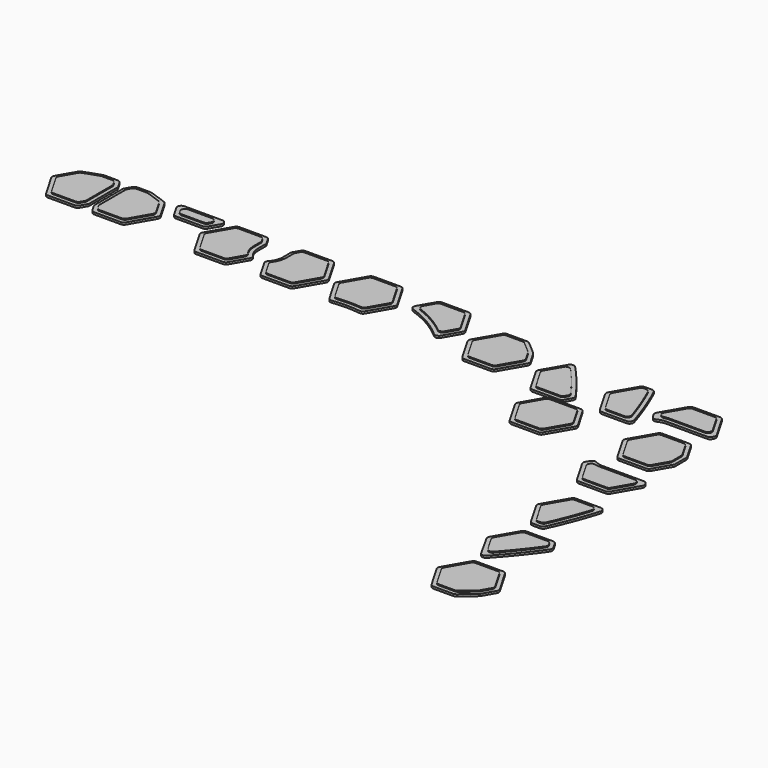
from build123d import *

# Parameters (mm, degrees)
PAD_DEPTH    = 2
PAD001_DEPTH = 1
FILLET_R     = 3.81
PAD002_DEPTH = 2
PAD003_DEPTH = 1
FILLET001_R  = 3.81
PAD004_DEPTH = 2
PAD005_DEPTH = 1
FILLET002_R  = 3.81
PAD006_DEPTH = 2
PAD007_DEPTH = 1
FILLET003_R  = 3.81
PAD008_DEPTH = 2
PAD009_DEPTH = 1
FILLET004_R  = 3.81
PAD010_DEPTH = 2
PAD011_DEPTH = 1
FILLET005_R  = 3.81
PAD012_DEPTH = 2
PAD013_DEPTH = 1
FILLET006_R  = 3.81
PAD014_DEPTH = 2
PAD015_DEPTH = 1
FILLET007_R  = 3.81
PAD020_DEPTH = 2
PAD021_DEPTH = 1
FILLET013_R  = 3.81
PAD022_DEPTH = 2
PAD023_DEPTH = 1
FILLET014_R  = 3.81
PAD024_DEPTH = 2
PAD025_DEPTH = 1
FILLET015_R  = 3.81
PAD030_DEPTH = 2
PAD031_DEPTH = 1
FILLET016_R  = 3.81
PAD026_DEPTH = 2
PAD032_DEPTH = 1
FILLET017_R  = 3.81
PAD028_DEPTH = 2
PAD033_DEPTH = 1
FILLET018_R  = 3.81
PAD016_DEPTH = 2
PAD034_DEPTH = 1
FILLET019_R  = 3.81
PAD018_DEPTH = 2
PAD035_DEPTH = 1
FILLET020_R  = 3.81
PAD036_DEPTH = 2
PAD037_DEPTH = 1
FILLET021_R  = 3.81


with BuildPart() as insert3:
    # Sketch → Pad (new body)
    with BuildSketch(Plane.XY):
        Polygon((-548.888668, 32.854832), (-554.094279, 34.631832), (-557.625151, 35.779603), (-573.377104, 35.779603), (-578.335465, 27.191469), (-578.335465, -8.415399), (-573.377104, -17.003533), (-542.902746, -17.003533), (-527.665567, 9.388035), (-539.160205, 29.297331), (-543.692335, 30.995178), align=None)
    extrude(amount=PAD_DEPTH)

    # Sketch001 → Pad001 (new body)
    with BuildSketch(Plane.XY.offset(2)):
        Polygon((-571.136412, 31.89861), (-574.454472, 26.15156), (-574.454472, -7.37549), (-571.136412, -13.12254), (-545.143439, -13.12254), (-532.146952, 9.388035), (-541.825245, 26.151329), (-545.027014, 27.350791), (-550.169482, 29.191168), (-555.321131, 30.949747), (-558.240105, 31.89861), align=None)
    extrude(amount=PAD001_DEPTH)

    # Fillet
    fillet_edges = [insert3.edges().sort_by_distance(p)[0] for p in [
        (-573.377104, -17.003533, 1),
        (-578.335465, -8.415399, 1),
        (-574.454472, -7.37549, 2.5),
        (-571.136412, -13.12254, 2.5),
        (-545.143439, -13.12254, 2.5),
        (-542.902746, -17.003533, 1),
        (-527.665567, 9.388035, 1),
        (-532.146952, 9.388035, 2.5),
        (-578.335465, 27.191469, 1),
        (-574.454472, 26.15156, 2.5),
        (-573.377104, 35.779603, 1),
        (-571.136412, 31.89861, 2.5),
        (-557.625151, 35.779603, 1),
        (-558.240105, 31.89861, 2.5),
        (-541.825245, 26.151329, 2.5),
        (-539.160205, 29.297331, 1),
    ]]
    fillet(fillet_edges, radius=FILLET_R)


with BuildPart() as insert5:
    # Sketch003 → Pad002 (new body)
    with BuildSketch(Plane.XY):
        with BuildLine():
            Line((-435.887289, 13.995863), (-435.887289, 24.503964))
            Line((-435.887289, 24.503964), (-440.84565, 33.092098))
            Line((-440.84565, 33.092098), (-471.320008, 33.092098))
            Line((-471.320008, 33.092098), (-486.557187, 6.70053))
            Line((-486.557187, 6.70053), (-471.320008, -19.691038))
            Line((-471.320008, -19.691038), (-440.84565, -19.691038))
            Line((-440.84565, -19.691038), (-429.116398, 0.624623))
            ThreePointArc((-435.887289, 13.995863), (-434.096854, 6.502566), (-429.116398, 0.624623))
        make_face()
    extrude(amount=PAD002_DEPTH)

    # Sketch002 → Pad003 (new body)
    with BuildSketch(Plane.XY.offset(2)):
        with BuildLine():
            ThreePointArc((-439.768282, 13.994329), (-438.287343, 6.354495), (-434.063031, -0.18121))
            Line((-443.086343, -15.810045), (-434.063031, -0.18121))
            Line((-469.079316, -15.810045), (-443.086343, -15.810045))
            Line((-482.075802, 6.70053), (-469.079316, -15.810045))
            Line((-469.079316, 29.211105), (-482.075802, 6.70053))
            Line((-443.086343, 29.211105), (-469.079316, 29.211105))
            Line((-439.768282, 23.464055), (-443.086343, 29.211105))
            Line((-439.768282, 13.99585), (-439.768282, 23.464055))
            Line((-439.768282, 13.994329), (-439.768282, 13.99585))
        make_face()
    extrude(amount=PAD003_DEPTH)

    # Fillet001
    fillet001_edges = [insert5.edges().sort_by_distance(p)[0] for p in [
        (-429.116398, 0.624623, 1),
        (-434.063031, -0.18121, 2.5),
        (-435.887289, 24.503964, 1),
        (-439.768282, 23.464055, 2.5),
        (-443.086343, 29.211105, 2.5),
        (-440.84565, 33.092098, 1),
        (-471.320008, 33.092098, 1),
        (-469.079316, 29.211105, 2.5),
        (-482.075802, 6.70053, 2.5),
        (-486.557187, 6.70053, 1),
        (-471.320008, -19.691038, 1),
        (-469.079316, -15.810045, 2.5),
        (-440.84565, -19.691038, 1),
        (-443.086343, -15.810045, 2.5),
    ]]
    fillet(fillet001_edges, radius=FILLET001_R)


with BuildPart() as insert7:
    # Sketch004 → Pad004 (new body)
    with BuildSketch(Plane.XY):
        with BuildLine():
            Line((-308.383261, -18.114864), (-293.963436, 6.861005))
            Line((-293.963436, 6.861005), (-309.200615, 33.252573))
            Line((-309.200615, 33.252573), (-339.674973, 33.252573))
            Line((-339.674973, 33.252573), (-354.912152, 6.861005))
            Line((-354.912152, 6.861005), (-340.492327, -18.114864))
            ThreePointArc((-324.437794, -16.917266), (-332.48737, -17.216997), (-340.492327, -18.114864))
            ThreePointArc((-308.383261, -18.114864), (-316.388229, -17.217136), (-324.437794, -16.917266))
        make_face()
    extrude(amount=PAD004_DEPTH)

    # Sketch005 → Pad005 (new body)
    with BuildSketch(Plane.XY.offset(2)):
        with BuildLine():
            Line((-310.438773, -13.91313), (-298.444821, 6.861005))
            Line((-298.444821, 6.861005), (-311.441308, 29.37158))
            Line((-311.441308, 29.37158), (-337.434281, 29.37158))
            Line((-337.434281, 29.37158), (-350.430767, 6.861005))
            Line((-350.430767, 6.861005), (-338.436819, -13.913123))
            ThreePointArc((-324.437789, -13.036273), (-331.45106, -13.255074), (-338.436819, -13.913123))
            ThreePointArc((-310.438773, -13.91313), (-317.424578, -13.255934), (-324.437789, -13.036273))
        make_face()
    extrude(amount=PAD005_DEPTH)

    # Fillet002
    fillet002_edges = [insert7.edges().sort_by_distance(p)[0] for p in [
        (-338.436819, -13.913123, 2.5),
        (-340.492327, -18.114864, 1),
        (-308.383261, -18.114864, 1),
        (-310.438773, -13.91313, 2.5),
        (-350.430767, 6.861005, 2.5),
        (-354.912152, 6.861005, 1),
        (-298.444821, 6.861005, 2.5),
        (-293.963436, 6.861005, 1),
        (-309.200615, 33.252573, 1),
        (-311.441308, 29.37158, 2.5),
        (-339.674973, 33.252573, 1),
        (-337.434281, 29.37158, 2.5),
    ]]
    fillet(fillet002_edges, radius=FILLET002_R)


with BuildPart() as insert8:
    # Sketch006 → Pad006 (new body)
    with BuildSketch(Plane.XY):
        Polygon((-272.45859, 32.454995), (-284.762088, 11.144712), (-284.250062, 11.003693), (-281.467074, 10.156379), (-278.689823, 9.228253), (-275.92167, 8.218843), (-273.166039, 7.127852), (-270.426406, 5.955171), (-267.706285, 4.700885), (-265.009217, 3.365273), (-262.338755, 1.948815), (-259.698451, 0.452194), (-257.091842, -1.1237), (-254.522435, -2.777776), (-251.993689, -4.508736), (-249.509007, -6.315079), (-247.071716, -8.195109), (-244.685055, -10.146933), (-242.352159, -12.168471), (-240.076047, -14.257463), (-239.053222, -15.251481), (-226.747054, 6.063428), (-241.984232, 32.454995), align=None)
    extrude(amount=PAD006_DEPTH)

    # Sketch007 → Pad007 (new body)
    with BuildSketch(Plane.XY.offset(2)):
        Polygon((-252.375531, 0.455785), (-249.756085, -1.337259), (-247.182284, -3.208392), (-244.657574, -5.155853), (-242.185309, -7.177684), (-239.977669, -9.090684), (-231.228438, 6.063428), (-244.224925, 28.574002), (-270.217898, 28.574002), (-278.97051, 13.414032), (-277.409747, 12.892443), (-274.542306, 11.846827), (-271.687837, 10.716704), (-268.849939, 9.501963), (-266.032253, 8.202689), (-263.238448, 6.819171), (-260.472203, 5.351908), (-257.737198, 3.801607), (-255.037097, 2.169189), align=None)
    extrude(amount=PAD007_DEPTH)

    # Fillet003
    fillet003_edges = [insert8.edges().sort_by_distance(p)[0] for p in [
        (-278.97051, 13.414032, 2.5),
        (-239.977669, -9.090684, 2.5),
        (-239.053222, -15.251481, 1),
        (-284.762088, 11.144712, 1),
        (-231.228438, 6.063428, 2.5),
        (-226.747054, 6.063428, 1),
        (-244.224925, 28.574002, 2.5),
        (-241.984232, 32.454995, 1),
        (-272.45859, 32.454995, 1),
        (-270.217898, 28.574002, 2.5),
    ]]
    fillet(fillet003_edges, radius=FILLET003_R)


with BuildPart() as insert9:
    # Sketch008 → Pad008 (new body)
    with BuildSketch(Plane.XY):
        Polygon((-215.963057, -3.631079), (-200.725878, -30.022647), (-170.25152, -30.022647), (-155.014341, -3.631079), (-162.889974, 10.009918), (-164.07652, 11.091065), (-168.417464, 14.92518), (-172.814813, 18.689675), (-177.266889, 22.383324), (-177.736058, 22.760489), (-200.725878, 22.760489), align=None)
    extrude(amount=PAD008_DEPTH)

    # Sketch009 → Pad009 (new body)
    with BuildSketch(Plane.XY.offset(2)):
        Polygon((-166.668232, 8.202114), (-170.964177, 11.996484), (-175.315943, 15.721956), (-179.121828, 18.879496), (-198.485185, 18.879496), (-211.481672, -3.631079), (-198.485185, -26.141654), (-172.492212, -26.141654), (-159.495726, -3.631079), (-165.949549, 7.54727), align=None)
    extrude(amount=PAD009_DEPTH)

    # Fillet004
    fillet004_edges = [insert9.edges().sort_by_distance(p)[0] for p in [
        (-200.725878, -30.022647, 1),
        (-198.485185, -26.141654, 2.5),
        (-172.492212, -26.141654, 2.5),
        (-170.25152, -30.022647, 1),
        (-155.014341, -3.631079, 1),
        (-159.495726, -3.631079, 2.5),
        (-211.481672, -3.631079, 2.5),
        (-215.963057, -3.631079, 1),
        (-165.949549, 7.54727, 2.5),
        (-162.889974, 10.009918, 1),
        (-177.736058, 22.760489, 1),
        (-179.121828, 18.879496, 2.5),
        (-200.725878, 22.760489, 1),
        (-198.485185, 18.879496, 2.5),
    ]]
    fillet(fillet004_edges, radius=FILLET004_R)


with BuildPart() as insert2:
    # Sketch011 → Pad010 (new body)
    with BuildSketch(Plane.XY):
        Polygon((-618.433201, -17.312886), (-587.958843, -17.312886), (-583.000482, -8.724753), (-583.000482, 26.882116), (-587.958843, 35.47025), (-603.710796, 35.47025), (-607.241668, 34.322479), (-612.447279, 32.545479), (-617.643612, 30.685825), (-622.175742, 28.987978), (-633.670379, 9.078682), align=None)
    extrude(amount=PAD010_DEPTH)

    # Sketch010 → Pad011 (new body)
    with BuildSketch(Plane.XY.offset(2)):
        Polygon((-619.510702, 25.841976), (-629.188995, 9.078682), (-616.192508, -13.431893), (-590.199535, -13.431893), (-586.881475, -7.684844), (-586.881475, 25.842207), (-590.199535, 31.589257), (-603.095842, 31.589257), (-606.014816, 30.640394), (-611.166465, 28.881814), (-616.308932, 27.041438), align=None)
    extrude(amount=PAD011_DEPTH)

    # Fillet005
    fillet005_edges = [insert2.edges().sort_by_distance(p)[0] for p in [
        (-583.000482, -8.724753, 1),
        (-587.958843, -17.312886, 1),
        (-586.881475, -7.684844, 2.5),
        (-590.199535, -13.431893, 2.5),
        (-616.192508, -13.431893, 2.5),
        (-618.433201, -17.312886, 1),
        (-633.670379, 9.078682, 1),
        (-629.188995, 9.078682, 2.5),
        (-622.175742, 28.987978, 1),
        (-619.510702, 25.841976, 2.5),
        (-603.095842, 31.589257, 2.5),
        (-603.710796, 35.47025, 1),
        (-590.199535, 31.589257, 2.5),
        (-587.958843, 35.47025, 1),
        (-583.000482, 26.882116, 1),
        (-586.881475, 25.842207, 2.5),
    ]]
    fillet(fillet005_edges, radius=FILLET005_R)


with BuildPart() as insert4:
    # Sketch012 → Pad012 (new body)
    with BuildSketch(Plane.XY):
        Polygon((-489.755288, 16.720231), (-479.89243, 33.803203), (-530.092504, 33.803203), (-520.229646, 16.720231), align=None)
    extrude(amount=PAD012_DEPTH)

    # Sketch013 → Pad013 (new body)
    with BuildSketch(Plane.XY.offset(2)):
        Polygon((-486.614507, 29.92221), (-523.370427, 29.92221), (-517.988953, 20.601224), (-491.99598, 20.601224), align=None)
    extrude(amount=PAD013_DEPTH)

    # Fillet006
    fillet006_edges = [insert4.edges().sort_by_distance(p)[0] for p in [
        (-489.755288, 16.720231, 1),
        (-520.229646, 16.720231, 1),
        (-517.988953, 20.601224, 2.5),
        (-491.99598, 20.601224, 2.5),
        (-479.89243, 33.803203, 1),
        (-486.614507, 29.92221, 2.5),
        (-530.092504, 33.803203, 1),
        (-523.370427, 29.92221, 2.5),
    ]]
    fillet(fillet006_edges, radius=FILLET006_R)


with BuildPart() as insert6:
    # Sketch014 → Pad014 (new body)
    with BuildSketch(Plane.XY):
        with BuildLine():
            Line((-376.563891, -19.072332), (-361.326713, 7.319236))
            Line((-361.326713, 7.319236), (-376.563891, 33.710804))
            Line((-376.563891, 33.710804), (-407.038249, 33.710804))
            Line((-407.038249, 33.710804), (-411.99661, 25.12267))
            Line((-411.99661, 25.12267), (-411.99661, 14.614569))
            ThreePointArc((-418.767502, 1.243329), (-413.787303, 7.121402), (-411.99661, 14.614569))
            Line((-418.767502, 1.243329), (-407.038249, -19.072332))
            Line((-407.038249, -19.072332), (-376.563891, -19.072332))
        make_face()
    extrude(amount=PAD014_DEPTH)

    # Sketch015 → Pad015 (new body)
    with BuildSketch(Plane.XY.offset(2)):
        with BuildLine():
            Line((-404.797557, 29.829811), (-408.115617, 24.082761))
            Line((-408.115617, 24.082761), (-408.115617, 14.614556))
            Line((-408.115617, 14.614556), (-408.115618, 14.613024))
            ThreePointArc((-413.820877, 0.43751), (-409.597029, 6.973389), (-408.115618, 14.613024))
            Line((-413.820877, 0.43751), (-404.797557, -15.191339))
            Line((-404.797557, -15.191339), (-378.804584, -15.191339))
            Line((-378.804584, -15.191339), (-365.808097, 7.319236))
            Line((-365.808097, 7.319236), (-378.804584, 29.829811))
            Line((-378.804584, 29.829811), (-404.797557, 29.829811))
        make_face()
    extrude(amount=PAD015_DEPTH)

    # Fillet007
    fillet007_edges = [insert6.edges().sort_by_distance(p)[0] for p in [
        (-407.038249, -19.072332, 1),
        (-404.797557, -15.191339, 2.5),
        (-376.563891, -19.072332, 1),
        (-378.804584, -15.191339, 2.5),
        (-361.326713, 7.319236, 1),
        (-365.808097, 7.319236, 2.5),
        (-413.820877, 0.43751, 2.5),
        (-418.767502, 1.243329, 1),
        (-411.99661, 25.12267, 1),
        (-408.115617, 24.082761, 2.5),
        (-407.038249, 33.710804, 1),
        (-404.797557, 29.829811, 2.5),
        (-376.563891, 33.710804, 1),
        (-378.804584, 29.829811, 2.5),
    ]]
    fillet(fillet007_edges, radius=FILLET007_R)


with BuildPart() as insert12:
    # Sketch020 → Pad020 (new body)
    with BuildSketch(Plane.XY):
        with BuildLine():
            ThreePointArc((-13.110238, -14.352457), (-18.890987, -15.395565), (-23.946511, -18.386685))
            Line((-29.094438, -9.470213), (-23.946511, -18.386685))
            Line((-13.85726, 16.921355), (-29.094438, -9.470213))
            Line((16.617098, 16.921355), (-13.85726, 16.921355))
            Line((31.854277, -9.470213), (16.617098, 16.921355))
            Line((29.035512, -14.352457), (31.854277, -9.470213))
            Line((-13.110238, -14.352457), (29.035512, -14.352457))
        make_face()
    extrude(amount=PAD020_DEPTH)

    # Sketch021 → Pad021 (new body)
    with BuildSketch(Plane.XY.offset(2)):
        with BuildLine():
            Line((-13.112772, -10.471465), (21.351852, -10.471465))
            ThreePointArc((21.351852, -10.471465), (24.651409, -8.566465), (24.651409, -4.756465))
            Line((24.651409, -4.756465), (14.376406, 13.040362))
            Line((14.376406, 13.040362), (-11.616567, 13.040362))
            Line((-11.616567, 13.040362), (-22.313467, -5.487211))
            ThreePointArc((-22.313467, -5.487211), (-22.054882, -9.687528), (-18.086325, -11.087559))
            ThreePointArc((-18.086325, -11.087559), (-15.618468, -10.626777), (-13.112772, -10.471465))
        make_face()
    extrude(amount=PAD021_DEPTH)

    # Fillet013
    fillet013_edges = [insert12.edges().sort_by_distance(p)[0] for p in [
        (-29.094438, -9.470213, 1),
        (-13.85726, 16.921355, 1),
        (-11.616567, 13.040362, 2.5),
        (16.617098, 16.921355, 1),
        (14.376406, 13.040362, 2.5),
        (31.854277, -9.470213, 1),
        (29.035512, -14.352457, 1),
        (-23.946511, -18.386685, 1),
    ]]
    fillet(fillet013_edges, radius=FILLET013_R)


with BuildPart() as insert13:
    # Sketch022 → Pad022 (new body)
    with BuildSketch(Plane.XY):
        Polygon((36.165968, -50.622495), (25.3472, -31.883839), (-5.127158, -31.883839), (-20.364337, -58.275407), (-5.127158, -84.666975), (25.3472, -84.666975), (36.165968, -65.928319), align=None)
    extrude(amount=PAD022_DEPTH)

    # Sketch023 → Pad023 (new body)
    with BuildSketch(Plane.XY.offset(2)):
        Polygon((23.106507, -35.764832), (-2.886466, -35.764832), (-15.882952, -58.275407), (-2.886466, -80.785982), (23.106507, -80.785982), (32.284975, -64.88841), (32.284975, -51.662404), align=None)
    extrude(amount=PAD023_DEPTH)

    # Fillet014
    fillet014_edges = [insert13.edges().sort_by_distance(p)[0] for p in [
        (25.3472, -84.666975, 1),
        (23.106507, -80.785982, 2.5),
        (36.165968, -65.928319, 1),
        (32.284975, -64.88841, 2.5),
        (-5.127158, -84.666975, 1),
        (-2.886466, -80.785982, 2.5),
        (-20.364337, -58.275407, 1),
        (-15.882952, -58.275407, 2.5),
        (-5.127158, -31.883839, 1),
        (-2.886466, -35.764832, 2.5),
        (25.3472, -31.883839, 1),
        (23.106507, -35.764832, 2.5),
        (36.165968, -50.622495, 1),
        (32.284975, -51.662404, 2.5),
    ]]
    fillet(fillet014_edges, radius=FILLET014_R)


with BuildPart() as insert14:
    # Sketch024 → Pad024 (new body)
    with BuildSketch(Plane.XY):
        with BuildLine():
            Line((-15.81995, -98.206424), (-20.967877, -107.122896))
            Line((-20.967877, -107.122896), (-5.730698, -133.514464))
            Line((-5.730698, -133.514464), (24.743659, -133.514464))
            Line((24.743659, -133.514464), (39.980838, -107.122896))
            Line((39.980838, -107.122896), (37.162074, -102.240652))
            Line((37.162074, -102.240652), (-4.983676, -102.240652))
            ThreePointArc((-15.81995, -98.206424), (-10.764423, -101.197538), (-4.983676, -102.240652))
        make_face()
    extrude(amount=PAD024_DEPTH)

    # Sketch025 → Pad025 (new body)
    with BuildSketch(Plane.XY.offset(2)):
        with BuildLine():
            Line((-14.187114, -111.105539), (-3.490006, -129.633471))
            Line((-3.490006, -129.633471), (22.502967, -129.633471))
            Line((22.502967, -129.633471), (32.777969, -111.836643))
            ThreePointArc((32.777969, -111.836643), (32.777969, -108.026643), (29.478412, -106.121643))
            Line((29.478412, -106.121643), (-5.007739, -106.121645))
            ThreePointArc((-9.959924, -105.505191), (-7.502687, -105.964894), (-5.007739, -106.121645))
            ThreePointArc((-9.959924, -105.505191), (-13.928524, -106.905191), (-14.187114, -111.105539))
        make_face()
    extrude(amount=PAD025_DEPTH)

    # Fillet015
    fillet015_edges = [insert14.edges().sort_by_distance(p)[0] for p in [
        (-5.730698, -133.514464, 1),
        (-3.490006, -129.633471, 2.5),
        (24.743659, -133.514464, 1),
        (22.502967, -129.633471, 2.5),
        (39.980838, -107.122896, 1),
        (37.162074, -102.240652, 1),
        (-20.967877, -107.122896, 1),
        (-15.81995, -98.206424, 1),
    ]]
    fillet(fillet015_edges, radius=FILLET015_R)


with BuildPart() as insert17:
    # Sketch030 → Pad030 (new body)
    with BuildSketch(Plane.XY):
        Polygon((39.164585, -338.851145), (39.633754, -338.473981), (44.08583, -334.780331), (48.483179, -331.015836), (52.824123, -327.181722), (54.010669, -326.100574), (61.886302, -312.459577), (46.649123, -286.06801), (16.174765, -286.06801), (0.937587, -312.459577), (16.174765, -338.851145), align=None)
    extrude(amount=PAD030_DEPTH)

    # Sketch031 → Pad031 (new body)
    with BuildSketch(Plane.XY.offset(2)):
        Polygon((57.404917, -312.459577), (44.408431, -289.949003), (18.415458, -289.949003), (5.418971, -312.459577), (18.415458, -334.970152), (37.778815, -334.970152), (41.5847, -331.812612), (45.936466, -328.08714), (50.232412, -324.29277), (50.951094, -323.637926), align=None)
    extrude(amount=PAD031_DEPTH)

    # Fillet016
    fillet016_edges = [insert17.edges().sort_by_distance(p)[0] for p in [
        (16.174765, -338.851145, 1),
        (18.415458, -334.970152, 2.5),
        (39.164585, -338.851145, 1),
        (37.778815, -334.970152, 2.5),
        (54.010669, -326.100574, 1),
        (50.951094, -323.637926, 2.5),
        (61.886302, -312.459577, 1),
        (57.404917, -312.459577, 2.5),
        (46.649123, -286.06801, 1),
        (44.408431, -289.949003, 2.5),
        (16.174765, -286.06801, 1),
        (18.415458, -289.949003, 2.5),
        (0.937587, -312.459577, 1),
        (5.418971, -312.459577, 2.5),
    ]]
    fillet(fillet016_edges, radius=FILLET016_R)


with BuildPart() as insert15:
    # Sketch026 → Pad026 (new body)
    with BuildSketch(Plane.XY):
        with BuildLine():
            Line((32.355529, -185.505228), (34.298022, -180.320053))
            Line((34.298022, -180.320053), (36.157676, -175.12372))
            Line((36.157676, -175.12372), (37.934676, -169.918109))
            Line((37.934676, -169.918109), (39.629261, -164.705082))
            Line((39.629261, -164.705082), (40.434826, -162.097921))
            ThreePointArc((40.434826, -162.097921), (39.860688, -158.711443), (36.79463, -157.163166))
            Line((36.79463, -157.163166), (10.398021, -157.163167))
            Line((10.398021, -157.163167), (-4.839157, -183.554735))
            Line((-4.839157, -183.554735), (10.398021, -209.946303))
            Line((10.398021, -209.946303), (21.975886, -209.946303))
            Line((21.975886, -209.946303), (23.755406, -206.096179))
            Line((23.755406, -206.096179), (26.029994, -200.974753))
            Line((26.029994, -200.974753), (28.221561, -195.834496))
            Line((28.221561, -195.834496), (30.330067, -190.677346))
            Line((30.330067, -190.677346), (32.355529, -185.505228))
        make_face()
    extrude(amount=PAD026_DEPTH)

    # Sketch027 → Pad032 (new body)
    with BuildSketch(Plane.XY.offset(2)):
        Polygon((32.494012, -173.842906), (34.252591, -168.691257), (35.929609, -163.532268), (36.698393, -161.04416), (12.638714, -161.04416), (-0.357773, -183.554735), (12.638714, -206.06531), (19.494188, -206.06531), (20.220304, -204.494303), (22.471313, -199.425966), (24.640162, -194.338994), (26.726811, -189.235303), (28.731278, -184.116799), (30.653635, -178.985374), align=None)
    extrude(amount=PAD032_DEPTH)

    # Fillet017
    fillet017_edges = [insert15.edges().sort_by_distance(p)[0] for p in [
        (10.398021, -157.163167, 1),
        (12.638714, -161.04416, 2.5),
        (-0.357773, -183.554735, 2.5),
        (-4.839157, -183.554735, 1),
        (10.398021, -209.946303, 1),
        (12.638714, -206.06531, 2.5),
        (19.494188, -206.06531, 2.5),
        (21.975886, -209.946303, 1),
        (36.698393, -161.04416, 2.5),
    ]]
    fillet(fillet017_edges, radius=FILLET017_R)


with BuildPart() as insert16:
    # Sketch028 → Pad028 (new body)
    with BuildSketch(Plane.XY):
        Polygon((41.337621, -246.428722), (44.811926, -241.822876), (48.211035, -237.169346), (50.965498, -233.273949), (45.175721, -223.245762), (14.701364, -223.245762), (-0.535815, -249.63733), (14.795002, -277.260225), (18.972773, -272.963431), (22.87523, -268.680534), (26.709344, -264.33959), (30.473839, -259.942241), (34.167489, -255.490165), (37.789121, -250.985077), align=None)
    extrude(amount=PAD028_DEPTH)

    # Sketch029 → Pad033 (new body)
    with BuildSketch(Plane.XY.offset(2)):
        Polygon((31.161482, -253.035186), (34.745572, -248.576797), (38.257288, -244.067673), (41.695579, -239.509572), (45.059453, -234.90428), (46.361923, -233.06231), (42.935029, -227.126755), (16.942056, -227.126755), (3.945569, -249.63733), (15.97973, -270.481108), (16.124275, -270.327323), (19.986278, -266.088823), (23.780648, -261.792877), (27.50612, -257.441111), align=None)
    extrude(amount=PAD033_DEPTH)

    # Fillet018
    fillet018_edges = [insert16.edges().sort_by_distance(p)[0] for p in [
        (14.795002, -277.260225, 1),
        (15.97973, -270.481108, 2.5),
        (-0.535815, -249.63733, 1),
        (3.945569, -249.63733, 2.5),
        (50.965498, -233.273949, 1),
        (46.361923, -233.06231, 2.5),
        (42.935029, -227.126755, 2.5),
        (45.175721, -223.245762, 1),
        (14.701364, -223.245762, 1),
        (16.942056, -227.126755, 2.5),
    ]]
    fillet(fillet018_edges, radius=FILLET018_R)


with BuildPart() as insert10:
    # Sketch016 → Pad016 (new body)
    with BuildSketch(Plane.XY):
        with BuildLine():
            Line((-92.071046, -26.954905), (-94.825509, -23.059509))
            Line((-94.825509, -23.059509), (-98.224618, -18.405978))
            Line((-98.224618, -18.405978), (-101.698923, -13.800133))
            Line((-101.698923, -13.800133), (-105.247423, -9.243778))
            Line((-105.247423, -9.243778), (-108.869055, -4.738689))
            Line((-108.869055, -4.738689), (-112.562705, -0.286614))
            Line((-112.562705, -0.286614), (-116.3272, 4.110736))
            Line((-116.3272, 4.110736), (-120.161314, 8.451679))
            Line((-120.161314, 8.451679), (-124.063771, 12.734576))
            Line((-124.063771, 12.734576), (-124.294321, 12.979867))
            ThreePointArc((-124.294321, 12.979867), (-127.509281, 14.155149), (-130.370079, 12.275497))
            Line((-130.370079, 12.275497), (-143.572359, -10.591524))
            Line((-143.572359, -10.591524), (-128.33518, -36.983092))
            Line((-128.33518, -36.983092), (-97.860823, -36.983092))
            Line((-97.860823, -36.983092), (-92.071046, -26.954905))
        make_face()
    extrude(amount=PAD016_DEPTH)

    # Sketch017 → Pad034 (new body)
    with BuildSketch(Plane.XY.offset(2)):
        with BuildLine():
            Line((-123.050266, 5.859968), (-123.545057, 6.402995))
            ThreePointArc((-123.545057, 6.402995), (-126.770767, 7.624838), (-129.660866, 5.741904))
            Line((-129.660866, 5.741904), (-139.090975, -10.591524))
            Line((-139.090975, -10.591524), (-126.094488, -33.102099))
            Line((-126.094488, -33.102099), (-100.101515, -33.102099))
            Line((-100.101515, -33.102099), (-97.896207, -29.282394))
            ThreePointArc((-97.896207, -29.282394), (-97.391242, -27.173146), (-98.119126, -25.130085))
            Line((-98.119126, -25.130085), (-101.340965, -20.719283))
            Line((-101.340965, -20.719283), (-104.779256, -16.161182))
            Line((-104.779256, -16.161182), (-108.290972, -11.652058))
            Line((-108.290972, -11.652058), (-111.875062, -7.193669))
            Line((-111.875062, -7.193669), (-115.530424, -2.787744))
            Line((-115.530424, -2.787744), (-119.255896, 1.564023))
            Line((-119.255896, 1.564023), (-123.050266, 5.859968))
        make_face()
    extrude(amount=PAD034_DEPTH)

    # Fillet019
    fillet019_edges = [insert10.edges().sort_by_distance(p)[0] for p in [
        (-128.33518, -36.983092, 1),
        (-126.094488, -33.102099, 2.5),
        (-100.101515, -33.102099, 2.5),
        (-97.860823, -36.983092, 1),
        (-92.071046, -26.954905, 1),
        (-143.572359, -10.591524, 1),
        (-139.090975, -10.591524, 2.5),
    ]]
    fillet(fillet019_edges, radius=FILLET019_R)


with BuildPart() as insert11:
    # Sketch018 → Pad018 (new body)
    with BuildSketch(Plane.XY):
        with BuildLine():
            Line((-63.904504, -32.729487), (-37.507896, -32.729487))
            ThreePointArc((-37.507896, -32.729487), (-34.441838, -31.18121), (-33.8677, -27.794732))
            Line((-33.8677, -27.794732), (-34.673265, -25.187572))
            Line((-34.673265, -25.187572), (-36.367849, -19.974544))
            Line((-36.367849, -19.974544), (-38.144849, -14.768933))
            Line((-38.144849, -14.768933), (-40.004504, -9.5726))
            Line((-40.004504, -9.5726), (-41.946997, -4.387426))
            Line((-41.946997, -4.387426), (-43.972459, 0.784693))
            Line((-43.972459, 0.784693), (-46.080965, 5.941843))
            Line((-46.080965, 5.941843), (-48.272532, 11.082099))
            Line((-48.272532, 11.082099), (-50.54712, 16.203525))
            Line((-50.54712, 16.203525), (-52.326639, 20.053649))
            Line((-52.326639, 20.053649), (-63.904504, 20.053649))
            Line((-63.904504, 20.053649), (-79.141683, -6.337919))
            Line((-79.141683, -6.337919), (-63.904504, -32.729487))
        make_face()
    extrude(amount=PAD018_DEPTH)

    # Sketch019 → Pad035 (new body)
    with BuildSketch(Plane.XY.offset(2)):
        with BuildLine():
            Line((-61.663812, -28.848494), (-42.808866, -28.848494))
            ThreePointArc((-42.808866, -28.848494), (-39.726363, -27.277751), (-39.185497, -23.860659))
            Line((-39.185497, -23.860659), (-40.049934, -21.201396))
            Line((-40.049934, -21.201396), (-41.808514, -16.049747))
            Line((-41.808514, -16.049747), (-43.648891, -10.90728))
            Line((-43.648891, -10.90728), (-45.571248, -5.775855))
            Line((-45.571248, -5.775855), (-47.575714, -0.657351))
            Line((-47.575714, -0.657351), (-49.662363, 4.44634))
            Line((-49.662363, 4.44634), (-51.831212, 9.533313))
            Line((-51.831212, 9.533313), (-53.774709, 13.909163))
            ThreePointArc((-53.774709, 13.909163), (-55.180198, 15.557049), (-57.256722, 16.172656))
            Line((-57.256722, 16.172656), (-61.663812, 16.172656))
            Line((-61.663812, 16.172656), (-74.660298, -6.337919))
            Line((-74.660298, -6.337919), (-61.663812, -28.848494))
        make_face()
    extrude(amount=PAD035_DEPTH)

    # Fillet020
    fillet020_edges = [insert11.edges().sort_by_distance(p)[0] for p in [
        (-63.904504, -32.729487, 1),
        (-61.663812, -28.848494, 2.5),
        (-79.141683, -6.337919, 1),
        (-74.660298, -6.337919, 2.5),
        (-63.904504, 20.053649, 1),
        (-61.663812, 16.172656, 2.5),
        (-52.326639, 20.053649, 1),
    ]]
    fillet(fillet020_edges, radius=FILLET020_R)


with BuildPart() as insert18:
    # Sketch032 → Pad036 (new body)
    with BuildSketch(Plane.XY):
        Polygon((-107.114129, -89.088446), (-76.639771, -89.088446), (-61.402592, -62.696878), (-75.078272, -39.009906), (-108.675628, -39.009906), (-122.351308, -62.696878), align=None)
    extrude(amount=PAD036_DEPTH)

    # Sketch033 → Pad037 (new body)
    with BuildSketch(Plane.XY.offset(2)):
        Polygon((-104.94676, -85.334453), (-78.80714, -85.334453), (-65.73733, -62.696878), (-77.245641, -42.763899), (-106.508259, -42.763899), (-118.01657, -62.696878), align=None)
    extrude(amount=PAD037_DEPTH)

    # Fillet021
    fillet021_edges = [insert18.edges().sort_by_distance(p)[0] for p in [
        (-76.639771, -89.088446, 1),
        (-78.80714, -85.334453, 2.5),
        (-107.114129, -89.088446, 1),
        (-104.94676, -85.334453, 2.5),
        (-122.351308, -62.696878, 1),
        (-118.01657, -62.696878, 2.5),
        (-61.402592, -62.696878, 1),
        (-65.73733, -62.696878, 2.5),
        (-75.078272, -39.009906, 1),
        (-77.245641, -42.763899, 2.5),
        (-108.675628, -39.009906, 1),
        (-106.508259, -42.763899, 2.5),
    ]]
    fillet(fillet021_edges, radius=FILLET021_R)


solid = Compound([insert3.part, insert5.part, insert7.part, insert8.part, insert9.part, insert2.part, insert4.part, insert6.part, insert12.part, insert13.part, insert14.part, insert17.part, insert15.part, insert16.part, insert10.part, insert11.part, insert18.part])
